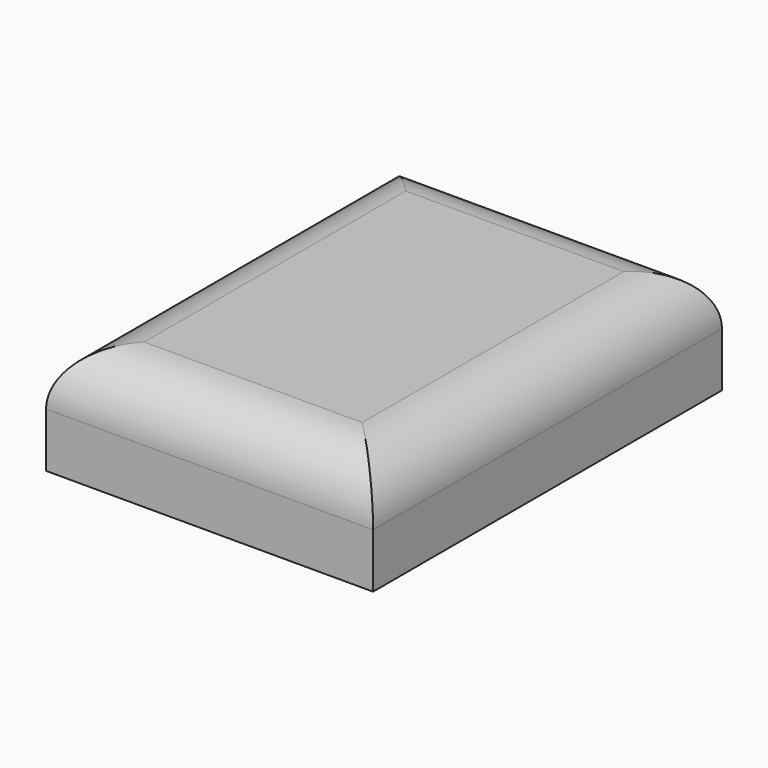
from build123d import *

# Parameters (mm, degrees)
F0_W     = 76.2
F0_H     = 101.6
F1_DEPTH = 12.7
F2_R     = 12.7


with BuildPart() as f1:
    # F0 (on Top) → F1 (new body, symmetric)
    with BuildSketch(Plane.XY):
        Rectangle(F0_W, F0_H)
    extrude(amount=F1_DEPTH, both=True)

    # F2
    f2_edges = [f1.edges().sort_by_distance(p)[0] for p in [
        (0, -50.8, 12.7),
        (38.1, 0, 12.7),
        (-38.1, 0, 12.7),
        (0, 50.8, 12.7),
    ]]
    fillet(f2_edges, radius=F2_R)


solid = f1.part
